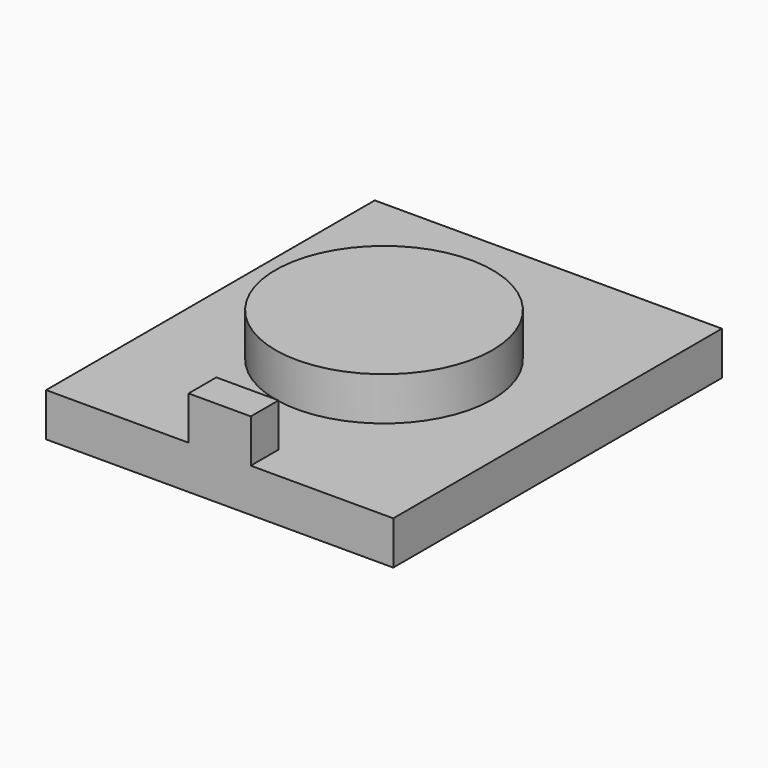
from build123d import *

# Parameters (mm, degrees)
SKETCH_W     = 12
SKETCH_H     = 14.2
PAD_DEPTH    = 1.5
SKETCH003_R  = 3.75
PAD003_DEPTH = 1.5
SKETCH004_W  = 2.15
SKETCH004_H  = 1.2
PAD004_DEPTH = 1.5


with BuildPart() as part:
    # Sketch → Pad (new body)
    with BuildSketch(Plane.XY):
        Rectangle(SKETCH_W, SKETCH_H)
    extrude(amount=PAD_DEPTH)

    # Sketch003 (on Face6 of Pad) → Pad003 (join)
    with BuildSketch(Plane.XY.offset(1.5)):
        Circle(SKETCH003_R)
    extrude(amount=PAD003_DEPTH)

    # Sketch004 (on Face5 of Pad003) → Pad004 (join)
    with BuildSketch(Plane.XY.offset(1.5)):
        with Locations((0, -6.5)):
            Rectangle(SKETCH004_W, SKETCH004_H)
    extrude(amount=PAD004_DEPTH)


solid = part.part
